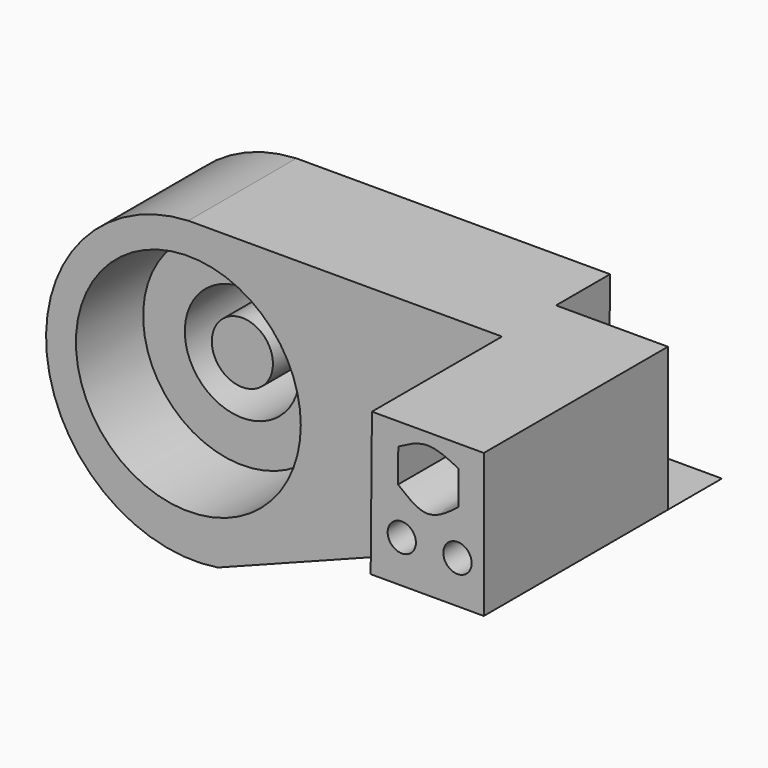
from build123d import *

# Parameters (mm, degrees)
F0_R     = 5.4613233485
F1_DEPTH = 21.3326
F0_R_2   = 17.7370944441
F0_R_3   = 10.288784277
F2_DEPTH = 17.63161
F0_R_4   = 20.0997074459
F3_DEPTH = 12.06991
F0_R_5   = 2.5244614793
F0_R_6   = 2.5329756631
F4_DEPTH = 41.13553


with BuildPart() as f1:
    # F0 (on Front) → F1 (new body)
    with BuildSketch(Plane.XZ):
        Circle(F0_R)
    extrude(amount=-F1_DEPTH)


with BuildPart() as f2:
    # F0 (on Front) → F2 (new body)
    with BuildSketch(Plane.XZ):
        Circle(F0_R_2)
        Circle(F0_R_3, mode=Mode.SUBTRACT)
    extrude(amount=-F2_DEPTH)


with BuildPart() as f3:
    # F0 (on Front) → F3 (new body, symmetric)
    with BuildSketch(Plane.XZ):
        with BuildLine():
            Line((56.0708636168, 25.6575048998), (0, 25.6575048998))
            ThreePointArc((0, 25.6575048998), (-25.3072053767, -3.5621654459), (5.2662704281, -27.2160521519))
            Line((5.2662704281, -27.2160521519), (76.0708636168, 0))
            Line((76.0708636168, 0), (55.8409741003, 0))
            Line((55.8409741003, 0), (55.9425145146, 11.3327206796))
            Line((55.9425145146, 11.3327206796), (56.0708636168, 25.6575048998))
        make_face()
        Circle(F0_R_4, mode=Mode.SUBTRACT)
    extrude(amount=F3_DEPTH, both=True)

    # F0 (on Front) → F4 (join)
    with BuildSketch(Plane.XZ):
        Polygon((76.0708636168, 25.6575048998), (56.0708636168, 25.6575048998), (55.9425145146, 11.3327206796), (76.0708636168, 11.1523720268), align=None)
        with BuildLine():
            Line((60.7273741383, 15.6940306851), (60.7812553644, 21.7076055706))
            add(Edge.make_bspline(
                [(60.7812553644, 21.7076055706), (62.4920059957, 22.6308860077), (65.9733020744, 24.5097177361), (69.6843552677, 22.6522774372), (71.571752429, 21.7076055706)],
                knots=[0, 0, 0, 0, 0.4914119893, 1, 1, 1, 1], degree=3))
            Line((71.571752429, 21.7076055706), (71.571752429, 15.6940306851))
            add(Edge.make_bspline(
                [(60.7273741383, 15.6940306851), (62.4567179182, 14.2736635588), (65.9610183309, 11.3954659647), (69.6853487899, 14.2487958923), (71.571752429, 15.6940306851)],
                knots=[0, 0, 0, 0, 0.4934918746, 1, 1, 1, 1], degree=3))
        make_face(mode=Mode.SUBTRACT)
        Polygon((55.8409741003, 0), (76.0708636168, 0), (76.0708636168, 11.1523720268), (55.9425145146, 11.3327206796), align=None)
        with Locations((61.4037886262, 7.596957963)):
            Circle(F0_R_5, mode=Mode.SUBTRACT)
        with Locations((71.3642463088, 7.596957963)):
            Circle(F0_R_6, mode=Mode.SUBTRACT)
    extrude(amount=F4_DEPTH)


solid = Compound([f1.part, f2.part, f3.part])
